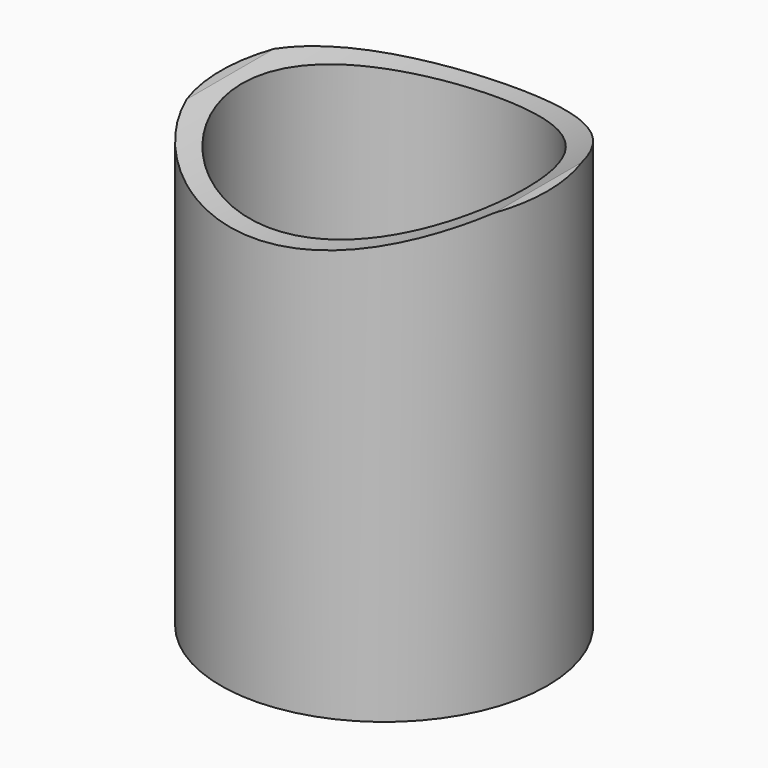
from build123d import *

# Parameters (mm, degrees)
F0_R     = 9.525
F0_R_2   = 8.2804
F1_DEPTH = 12.7
F3_DEPTH = 12.7


with BuildPart() as f1:
    # F0 (on Top) → F1 (new body, symmetric)
    with BuildSketch(Plane.XY):
        Circle(F0_R)
        Circle(F0_R_2, mode=Mode.SUBTRACT)
    extrude(amount=F1_DEPTH, both=True)

    # F2 (on Front) → F3 (cut, symmetric)
    with BuildSketch(Plane.XZ):
        with BuildLine():
            Line((25.4010208358, 36.463421452), (-25.4010208358, 36.463421452))
            ThreePointArc((-25.4010208358, 36.463421452), (0, 11.0624006163), (25.4010208358, 36.463421452))
        make_face()
    extrude(amount=F3_DEPTH, both=True, mode=Mode.SUBTRACT)


solid = f1.part
